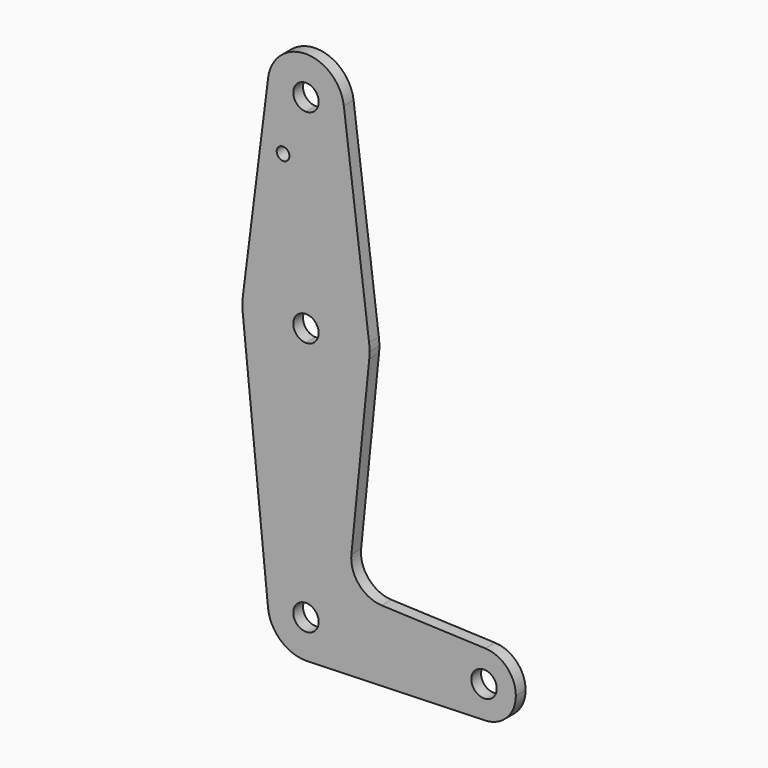
from build123d import *

# Parameters (mm, degrees)
F0_R     = 1.5875
F1_DEPTH = 3.048
F2_DEPTH = 3.048


with BuildPart() as f1:
    # F0 (on Front) → F1 (new body)
    with BuildSketch(Plane.XZ):
        with BuildLine():
            ThreePointArc((-9.4502929642, 72.8374742885), (-7.14375, 65.346653979), (0, 62.1218492885))
            ThreePointArc((0, 62.1218492885), (6.7351920908, 64.9116571977), (9.525, 71.6468492885))
            ThreePointArc((9.525, 71.6468492885), (9.5063048942, 72.2433325304), (9.4502929642, 72.8374742885))
            ThreePointArc((9.4502929642, 72.8374742885), (0, 81.1718492885), (-9.4502929642, 72.8374742885))
        make_face()
        with BuildLine():
            ThreePointArc((3.175, 71.6468492885), (2.2450640303, 69.4017852582), (0, 68.4718492885))
            ThreePointArc((0, 68.4718492885), (-2.2450640303, 73.8919133187), (3.175, 71.6468492885))
        make_face(mode=Mode.SUBTRACT)
        with BuildLine():
            ThreePointArc((9.525, 71.6468492885), (6.7351920908, 64.9116571977), (0, 62.1218492885))
            Line((0, 62.1218492885), (0, 36.7218492885))
            ThreePointArc((0, 36.7218492885), (10.5003255158, 32.7530992885), (15.7504882737, 22.8312242885))
            Line((15.7504882737, 22.8312242885), (9.4502929642, 72.8374742885))
            ThreePointArc((9.4502929642, 72.8374742885), (9.5063048942, 72.2433325304), (9.525, 71.6468492885))
        make_face()
        with BuildLine():
            Line((0, 36.7218492885), (0, 62.1218492885))
            ThreePointArc((0, 62.1218492885), (-7.14375, 65.346653979), (-9.4502929642, 72.8374742885))
            Line((-9.4502929642, 72.8374742885), (-15.7504882737, 22.8312242885))
            ThreePointArc((-15.7504882737, 22.8312242885), (-10.5003255158, 32.7530992885), (0, 36.7218492885))
        make_face()
        with Locations((-5.7203420438, 57.3720492885)):
            Circle(F0_R, mode=Mode.SUBTRACT)
        with BuildLine():
            ThreePointArc((15.7504882737, 22.8312242885), (10.5003255158, 32.7530992885), (0, 36.7218492885))
            Line((0, 36.7218492885), (0, 24.0218492885))
            ThreePointArc((0, 24.0218492885), (2.2450640303, 23.0919133187), (3.175, 20.8468492885))
            ThreePointArc((3.175, 20.8468492885), (2.2450640303, 18.6017852582), (0, 17.6718492885))
            Line((0, 17.6718492885), (0, 4.9718492885))
            ThreePointArc((0, 4.9718492885), (10.6492737428, 9.0736341902), (15.7954255641, 19.2593492885))
            ThreePointArc((15.7954255641, 19.2593492885), (15.8550939106, 20.0521027344), (15.875, 20.8468492885))
            ThreePointArc((15.875, 20.8468492885), (15.8438414904, 21.8409880251), (15.7504882737, 22.8312242885))
        make_face()
        with BuildLine():
            Line((0, 24.0218492885), (0, 36.7218492885))
            ThreePointArc((0, 36.7218492885), (-10.5003255158, 32.7530992885), (-15.7504882737, 22.8312242885))
            ThreePointArc((-15.7504882737, 22.8312242885), (-15.8737438155, 21.0465547752), (-15.7954255641, 19.2593492885))
            ThreePointArc((-15.7954255641, 19.2593492885), (-10.6492737428, 9.0736341902), (0, 4.9718492885))
            Line((0, 4.9718492885), (0, 17.6718492885))
            ThreePointArc((0, 17.6718492885), (-3.175, 20.8468492885), (0, 24.0218492885))
        make_face()
        with BuildLine():
            ThreePointArc((0, 4.9718492885), (-10.6492737428, 9.0736341902), (-15.7954255641, 19.2593492885))
            Line((-15.7954255641, 19.2593492885), (-9.4772553384, -43.6056507115))
            ThreePointArc((-9.4772553384, -43.6056507115), (-7.063929059, -36.2635864658), (0, -33.1281507115))
            Line((0, -33.1281507115), (0, 4.9718492885))
        make_face()
        with BuildLine():
            ThreePointArc((15.7954255641, 19.2593492885), (10.6492737428, 9.0736341902), (0, 4.9718492885))
            Line((0, 4.9718492885), (0, -33.1281507115))
            ThreePointArc((0, -33.1281507115), (6.7351920908, -35.9179586207), (9.525, -42.6531507115))
            ThreePointArc((9.525, -42.6531507115), (9.5249787703, -42.6732610391), (9.5249150813, -42.6933712771))
            Line((9.5249150813, -42.6933712771), (36.5125707656, -42.8073312194))
            ThreePointArc((36.5125707656, -42.8073312194), (38.9621588551, -37.1060854313), (44.7656278241, -34.9096261737))
            Line((44.7656278241, -34.9096261737), (18.9270947459, -33.8813659907))
            ThreePointArc((18.9270947459, -33.8813659907), (13.242312223, -31.1523071557), (11.332878452, -25.1424338516))
            Line((11.332878452, -25.1424338516), (15.7954255641, 19.2593492885))
        make_face()
        with BuildLine():
            ThreePointArc((0, -33.1281507115), (-7.063929059, -36.2635864658), (-9.4772553384, -43.6056507115))
            ThreePointArc((-9.4772553384, -43.6056507115), (-6.3895642457, -49.7170797705), (0, -52.1781507115))
            Line((0, -52.1781507115), (0.5976489201, -52.1593823923))
            ThreePointArc((0.5976489201, -52.1593823923), (6.9294961649, -49.1882641689), (9.5249150813, -42.6933712771))
            Line((9.5249150813, -42.6933712771), (3.1749716938, -42.6665575667))
            ThreePointArc((3.1749716938, -42.6665575667), (-2.249799076, -44.8934696882), (0, -39.4781507115))
            Line((0, -39.4781507115), (0, -33.1281507115))
        make_face()
        with BuildLine():
            Line((0.5976489201, -52.1593823923), (0, -52.1781507115))
            ThreePointArc((0, -52.1781507115), (0.2989717719, -52.1734574755), (0.5976489201, -52.1593823923))
        make_face()
        with BuildLine():
            ThreePointArc((9.5249150813, -42.6933712771), (6.9294961649, -49.1882641689), (0.5976489201, -52.1593823923))
            Line((0.5976489201, -52.1593823923), (44.6991430604, -50.7744373299))
            ThreePointArc((44.6991430604, -50.7744373299), (38.9141052198, -48.5292378687), (36.5125707656, -42.8073312194))
            Line((36.5125707656, -42.8073312194), (9.5249150813, -42.6933712771))
        make_face()
        with BuildLine():
            ThreePointArc((52.3875, -42.8408483573), (50.1731635528, -37.3409115215), (44.7656278241, -34.9096261737))
            ThreePointArc((44.7656278241, -34.9096261737), (38.9621588551, -37.1060854313), (36.5125707656, -42.8073312194))
            ThreePointArc((36.5125707656, -42.8073312194), (38.9141052198, -48.5292378687), (44.6991430604, -50.7744373299))
            ThreePointArc((44.6991430604, -50.7744373299), (50.1500648809, -48.3647207856), (52.3875, -42.8408483573))
        make_face()
        with BuildLine():
            ThreePointArc((47.625, -42.8408483573), (44.4432965575, -46.0158412808), (41.2750283062, -42.8274415022))
            ThreePointArc((41.2750283062, -42.8274415022), (44.4567034425, -39.6658554339), (47.625, -42.8408483573))
        make_face(mode=Mode.SUBTRACT)
    extrude(amount=F1_DEPTH)

    # F0 (on Front) → F2 (join)
    with BuildSketch(Plane.XZ):
        with BuildLine():
            ThreePointArc((9.525, -42.6531507115), (6.7351920908, -35.9179586207), (0, -33.1281507115))
            Line((0, -33.1281507115), (0, -39.4781507115))
            ThreePointArc((0, -39.4781507115), (2.2450640303, -40.4080866813), (3.175, -42.6531507115))
            ThreePointArc((3.175, -42.6531507115), (3.1749929234, -42.6598541541), (3.1749716938, -42.6665575667))
            Line((3.1749716938, -42.6665575667), (9.5249150813, -42.6933712771))
            ThreePointArc((9.5249150813, -42.6933712771), (9.5249787703, -42.6732610391), (9.525, -42.6531507115))
        make_face()
    extrude(amount=F2_DEPTH)


solid = f1.part
